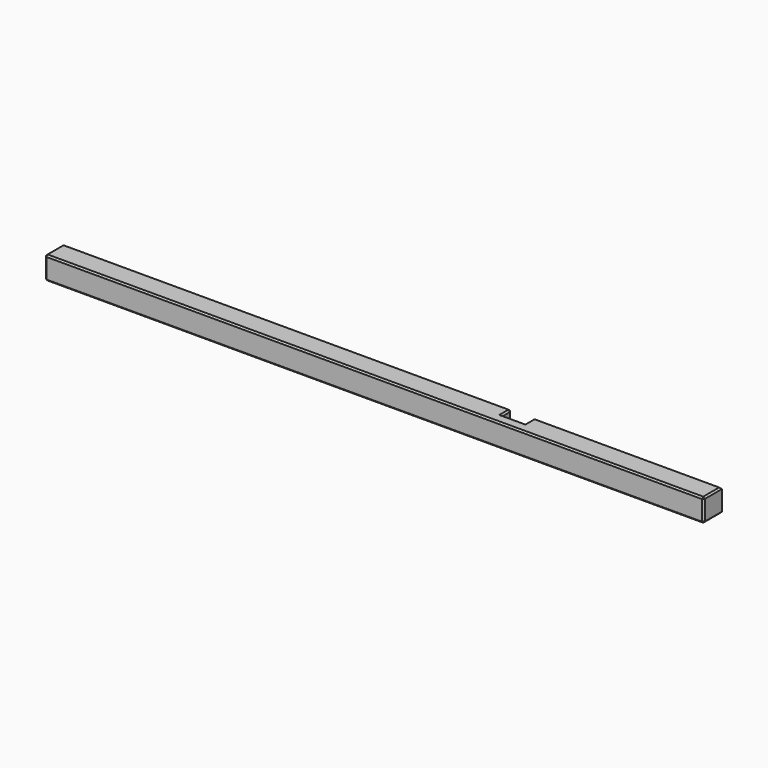
from build123d import *

# Parameters (mm, degrees)
F1_DEPTH = 150
F2_SIZE  = 10


with BuildPart() as f1:
    # F0 (on Top) → F1 (new body)
    with BuildSketch(Plane.XY):
        Polygon((775, 75), (-2150, 75), (-2150, -75), (2150, -75), (2150, 75), (925, 75), (925, 0), (775, 0), align=None)
    extrude(amount=F1_DEPTH)

    # F2
    f2_edges = [f1.edges().sort_by_distance(p)[0] for p in [
        (-687.5, 75, 150),
        (-2150, 0, 150),
        (0, -75, 150),
        (2150, 0, 150),
        (1537.5, 75, 150),
        (925, 37.5, 150),
        (850, 0, 150),
        (775, 37.5, 150),
        (-2150, -75, 75),
        (2150, -75, 75),
        (0, -75, 0),
        (-687.5, 75, 0),
        (-2150, 0, 0),
        (2150, 0, 0),
        (1537.5, 75, 0),
        (925, 37.5, 0),
        (850, 0, 0),
        (775, 37.5, 0),
        (775, 75, 75),
        (-2150, 75, 75),
    ]]
    chamfer(f2_edges, length=F2_SIZE)


solid = f1.part
